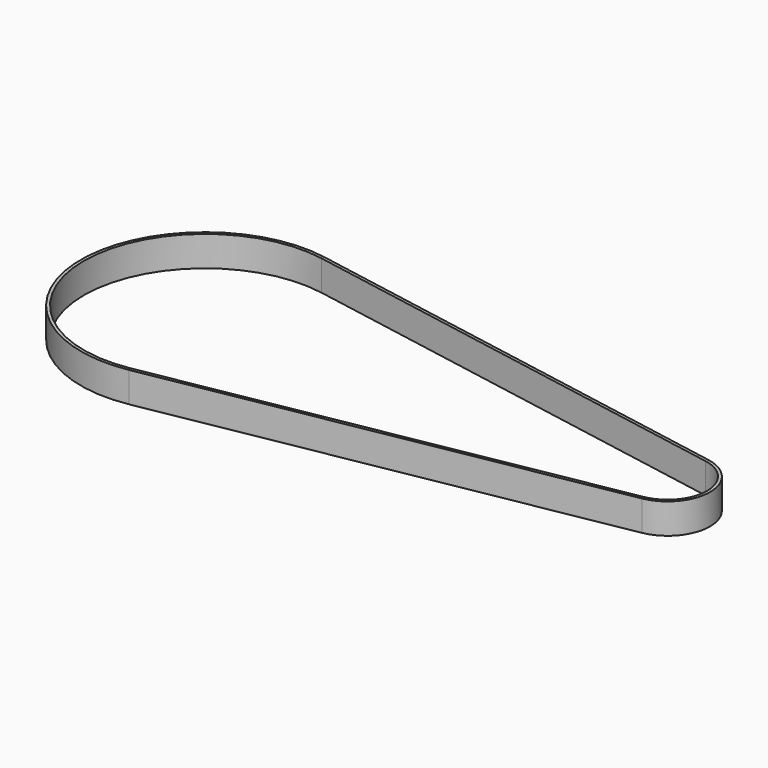
from build123d import *

# Parameters (mm, degrees)
PAD_DEPTH = 5


with BuildPart() as part:
    # Sketch → Pad (new body)
    with BuildSketch(Plane.XY):
        with BuildLine():
            ThreePointArc((-45.094423, 20.177907), (-69.2141, 0), (-45.094423, -20.177907))
            Line((-45.094423, -20.177907), (28.978987, -6.890017))
            ThreePointArc((28.978987, -6.890017), (34.743, 0), (28.978987, 6.890017))
            Line((-45.094423, 20.177907), (28.978987, 6.890017))
        make_face()
        with BuildLine():
            ThreePointArc((-45.182708, 19.685763), (-68.7141, 0), (-45.182708, -19.685763))
            Line((-45.182708, -19.685763), (28.890703, -6.397873))
            ThreePointArc((28.890703, -6.397873), (34.243, 0), (28.890703, 6.397873))
            Line((-45.182708, 19.685763), (28.890703, 6.397873))
        make_face(mode=Mode.SUBTRACT)
    extrude(amount=PAD_DEPTH)


solid = part.part
